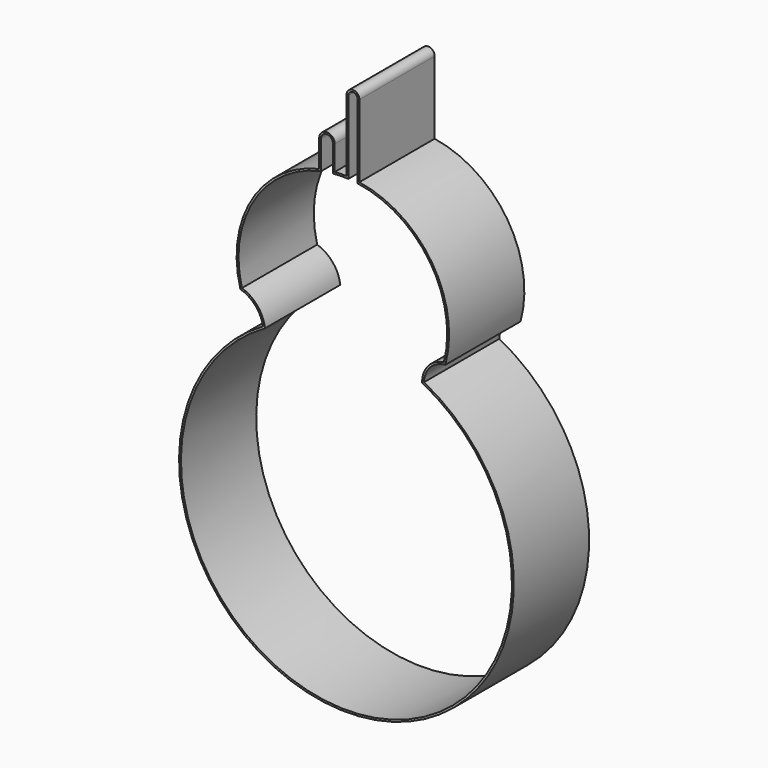
from build123d import *

# Parameters (mm, degrees)
F1_DEPTH = 25


with BuildPart() as f1:
    # F0 (on Front) → F1 (new body)
    with BuildSketch(Plane.XZ):
        with BuildLine():
            ThreePointArc((-28.190229, 45.313943), (-24.214198, 42.800089), (-22.182589, 38.557349))
            ThreePointArc((-22.182589, 38.557349), (0.896682, -44.473951), (20.610411, 39.420139))
            ThreePointArc((20.610411, 39.420139), (22.279856, 43.485217), (26.273011, 45.320053))
            ThreePointArc((26.273011, 45.320053), (22.742729, 68.079793), (3.432866, 80.633594))
            Line((3.432866, 80.633594), (3.432866, 99.945173))
            ThreePointArc((3.432866, 99.945173), (1.716433, 101.661606), (0, 99.945173))
            Line((0, 99.945173), (0, 80.961105))
            ThreePointArc((0, 80.961105), (-1.559237, 80.971042), (-3.116643, 80.894866))
            Line((-3.116643, 80.894866), (-3.116643, 87.447404))
            ThreePointArc((-3.116643, 87.447404), (-5.188906, 89.519667), (-7.26117, 87.447404))
            Line((-7.26117, 87.447404), (-7.26117, 80.265008))
            ThreePointArc((-7.26117, 80.265008), (-25.177238, 67.251534), (-28.190229, 45.313943))
        make_face()
        with BuildLine():
            ThreePointArc((-27.778708, 45.710137), (-24.574012, 67.281705), (-6.76117, 79.863648))
            Line((-6.76117, 79.863648), (-6.76117, 87.447404))
            ThreePointArc((-6.76117, 87.447404), (-5.188906, 89.019667), (-3.616643, 87.447404))
            Line((-3.616643, 87.447404), (-3.616643, 80.349799))
            ThreePointArc((-3.616643, 80.349799), (-1.559979, 80.470911), (0.5, 80.438979))
            Line((0.5, 80.438979), (0.5, 99.945173))
            ThreePointArc((0.5, 99.945173), (1.716433, 101.161606), (2.932866, 99.945173))
            Line((2.932866, 99.945173), (2.932866, 80.202862))
            ThreePointArc((2.932866, 80.202862), (22.110002, 68.132408), (25.88031, 45.788658))
            ThreePointArc((25.88031, 45.788658), (21.690506, 43.580432), (20.113465, 39.1146))
            ThreePointArc((20.113465, 39.1146), (0.866103, -43.974461), (-21.63804, 38.292279))
            ThreePointArc((-21.63804, 38.292279), (-23.633494, 42.891018), (-27.778708, 45.710137))
        make_face(mode=Mode.SUBTRACT)
    extrude(amount=F1_DEPTH)


solid = f1.part
